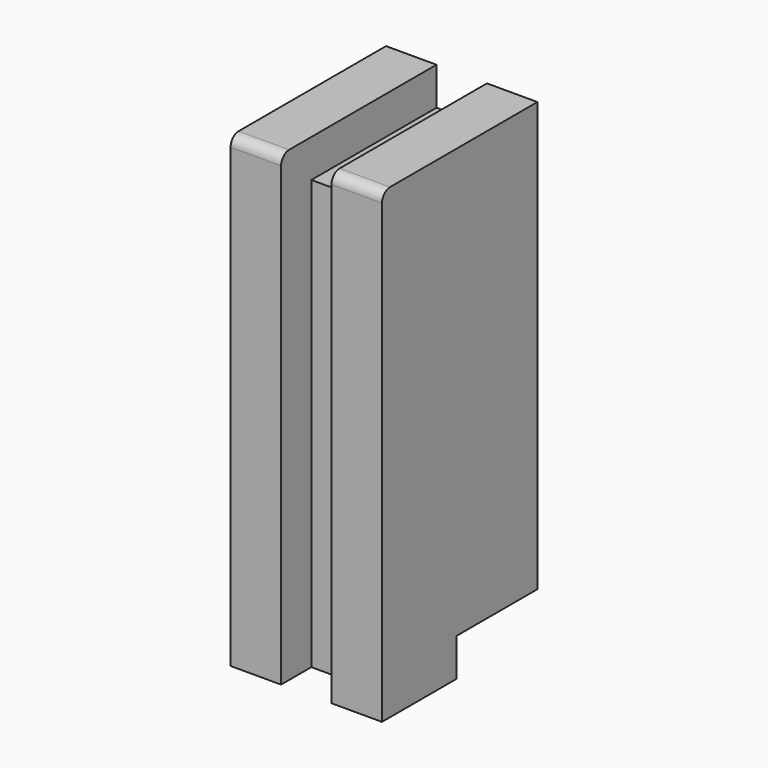
from build123d import *

# Parameters (mm, degrees)
F0_W     = 97.79
F0_H     = 234.95
F1_DEPTH = 38.1
F2_W     = 19.05
F2_H     = 215.9
F2_H_2   = 19.05
F2_W_2   = 78.74
F3_DEPTH = 12.7
F2_W_3   = 50.8
F4_DEPTH = 38.101
F5_R     = 5.08


with BuildPart() as f1:
    # F0 (on Right) → F1 (new body)
    with BuildSketch(Plane.YZ):
        with Locations((48.895, -136.525)):
            Rectangle(F0_W, F0_H)
    extrude(amount=F1_DEPTH)

    # F2 (on face) → F3 (cut)
    with BuildSketch(Plane(origin=(0, 0, 0), x_dir=(0, -1, 0), z_dir=(-1, 0, 0))):
        with Locations((-9.525, -146.05)):
            Rectangle(F2_W, F2_H)
        with Locations((-9.525, -28.575)):
            Rectangle(F2_W, F2_H_2)
        with Locations((-58.42, -28.575)):
            Rectangle(F2_W_2, F2_H_2)
    extrude(amount=-F3_DEPTH, mode=Mode.SUBTRACT)

    # F2 (on face) → F4 (cut, through all)
    with BuildSketch(Plane(origin=(0, 0, 0), x_dir=(0, -1, 0), z_dir=(-1, 0, 0))):
        with Locations((-72.39, -244.475)):
            Rectangle(F2_W_3, F2_H_2)
    extrude(amount=-F4_DEPTH, mode=Mode.SUBTRACT)

    # F5
    f5_edges = [f1.edges().sort_by_distance(p)[0] for p in [
        (25.4, 0, -19.05),
    ]]
    fillet(f5_edges, radius=F5_R)


with BuildPart() as f6_1:
    # F6: instance of F1
    add(f1.part.mirror(Plane.YZ))


solid = Compound([f1.part, f6_1.part])
